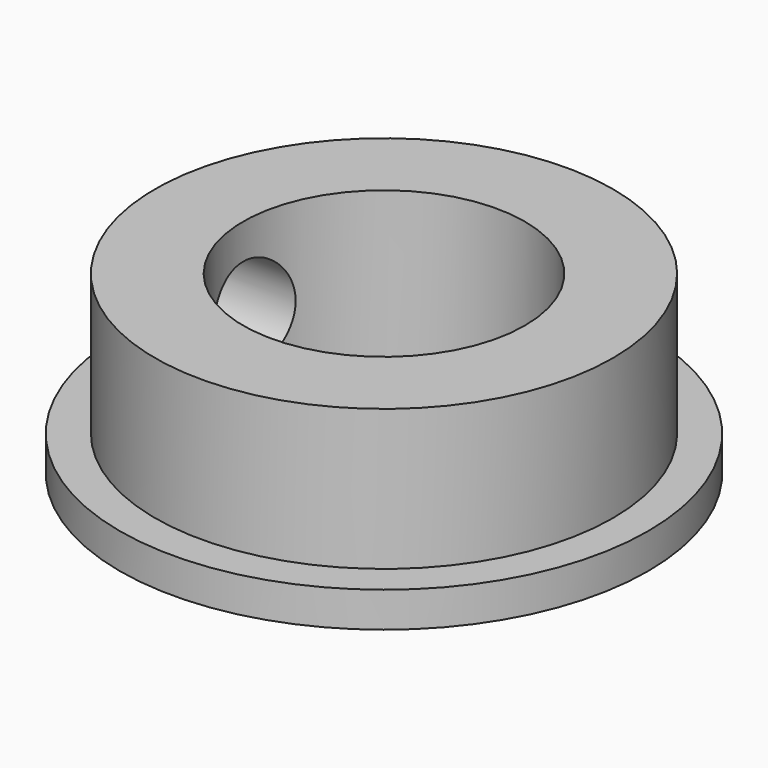
from build123d import *

# Parameters (mm, degrees)
F0_R     = 15
F0_R_2   = 8
F1_DEPTH = 2
F2_R     = 13
F2_R_2   = 8
F3_DEPTH = 8
F5_D     = 6
F5_DEPTH = 25
F5_TIP   = 1.8025818571


with BuildPart() as f1:
    # F0 (on Top) → F1 (new body)
    with BuildSketch(Plane.XY):
        Circle(F0_R)
        Circle(F0_R_2, mode=Mode.SUBTRACT)
    extrude(amount=F1_DEPTH)

    # F2 (on face) → F3 (join)
    with BuildSketch(Plane.XY.offset(2)):
        Circle(F2_R)
        Circle(F2_R_2, mode=Mode.SUBTRACT)
    extrude(amount=F3_DEPTH)

    # F5 (one way)
    with BuildSketch(Plane.YZ):
        with Locations((0, 5)):
            Circle(F5_D / 2)
    extrude(amount=-F5_DEPTH, mode=Mode.SUBTRACT)
    with Locations(Plane.YZ):
        with Locations((0, 5)):
            with Locations((0, 0, -(F5_DEPTH + F5_TIP / 2))):  # 118° drill point
                Cone(0, F5_D / 2, F5_TIP, mode=Mode.SUBTRACT)


solid = f1.part
